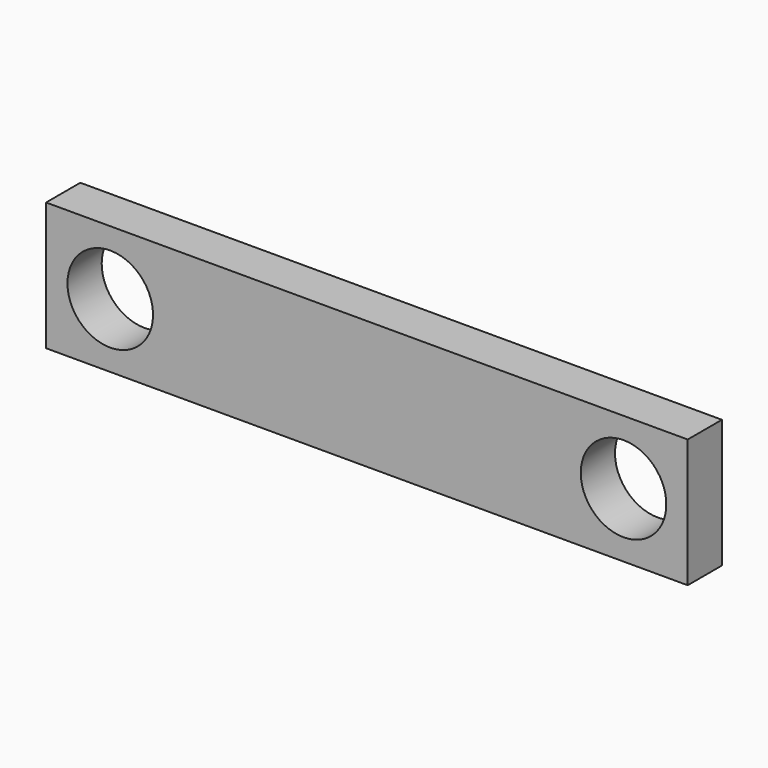
from build123d import *

# Parameters (mm, degrees)
F0_W     = 190.5
F0_H     = 38.1
F1_DEPTH = 12.7
F3_D     = 25.4


with BuildPart() as f1:
    # F0 (on Front) → F1 (new body)
    with BuildSketch(Plane.XZ):
        with Locations((6.291108, 6.421452)):
            Rectangle(F0_W, F0_H)
    extrude(amount=F1_DEPTH)

    # F3 (through all)
    with Locations(Plane.XZ.offset(12.7)):
        with Locations((-69.908892, 6.421452), (82.491108, 6.421452)):
            Hole(F3_D / 2)


solid = f1.part
